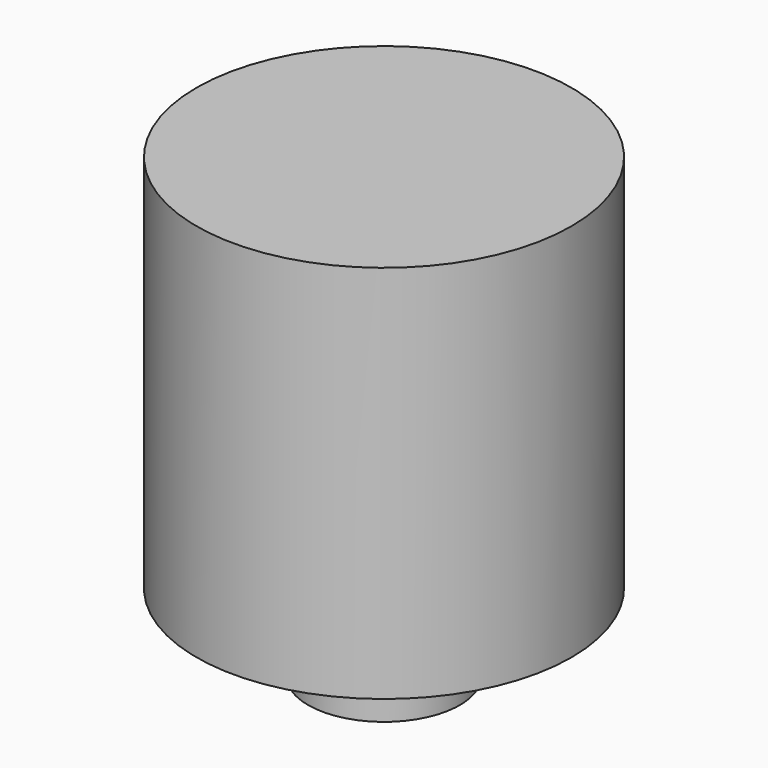
from build123d import *

# Parameters (mm, degrees)
F2_R      = 0.75
F1_FACE_R = 18
F3_DEPTH  = 5


with BuildPart() as f1:
    # F0 (on Front) → F1 (revolve)
    with BuildSketch(Plane.XZ):
        Polygon((-25, 0), (0, 0), (0, 5), (-18, 5), (-18, 20), (-55.7468829195, 31.0686341332), (-55.7468829195, 144.7754010692), (0, 144.7754010692), (0, 150.7754010692), (-61.7468829195, 150.7754010692), (-61.7468829195, 25.7754010692), (-25, 15), align=None)
    revolve(axis=Axis((0, 0, 9.5453196814), (0, 0, -1)))

    # F2 (on Top) + F1_face (on face) → F3 (cut, through all)
    with BuildSketch(Plane.XY):
        with Locations((3.0040326084, 13.1615268145)):
            Circle(F2_R)
        with Locations((0, 13.5)):
            Circle(F2_R)
        with Locations((10.5547250133, -8.4171123251)):
            Circle(F2_R)
        with Locations((12.1630797167, -5.8574304781)):
            Circle(F2_R)
        with Locations((13.1615268145, -3.0040326084)):
            Circle(F2_R)
        with BuildLine():
            ThreePointArc((-3.4816367378, -7.7542379139), (-2.7599454882, -8.0394465545), (-2.0152509152, -8.2576488027))
            ThreePointArc((-2.0152509152, -8.2576488027), (-1.9918087148, -8.1496650898), (-1.9839414752, -8.0394465545))
            ThreePointArc((-1.9839414752, -8.0394465545), (-2.6147784767, -7.2771416502), (-3.4816367378, -7.7542379139))
        make_face()
        with Locations((-1.6394649279, 10.8771390885)):
            Circle(F2_R)
        with Locations((10.5547250133, 8.4171123251)):
            Circle(F2_R)
        with Locations((12.1630797167, 5.8574304781)):
            Circle(F2_R)
        with Locations((10.969241769, -0.8220310295)):
            Circle(F2_R)
        with Locations((8.4171123251, 10.5547250133)):
            Circle(F2_R)
        with Locations((-7.4819001155, 8.0635705901)):
            Circle(F2_R)
        with Locations((5.8574304781, 12.1630797167)):
            Circle(F2_R)
        with Locations((10.724207034, 2.4477302735)):
            Circle(F2_R)
        with BuildLine():
            ThreePointArc((-4.710457363, 7.0754216433), (-4.0455528408, 7.4755268853), (-3.3469298407, 7.8133258374))
            ThreePointArc((-3.3469298407, 7.8133258374), (-4.4148899278, 8.1580020456), (-4.710457363, 7.0754216433))
        make_face()
        with Locations((1.6394649279, 10.8771390885)):
            Circle(F2_R)
        with Locations((3.0040326084, -13.1615268145)):
            Circle(F2_R)
        with Locations((-13.1615268145, -3.0040326084)):
            Circle(F2_R)
        with Locations((9.5262794416, 5.5)):
            Circle(F2_R)
        with Locations((-12.1630797167, 5.8574304781)):
            Circle(F2_R)
        with BuildLine():
            ThreePointArc((4.587313245, -7.155875711), (5.2208080579, -6.7076943299), (5.8107889907, -6.2036063145))
            ThreePointArc((5.8107889907, -6.2036063145), (4.7441765279, -6.0953181277), (4.587313245, -7.155875711))
        make_face()
        with BuildLine():
            ThreePointArc((3.3469298407, 7.8133258374), (4.0455528408, 7.4755268853), (4.710457363, 7.0754216433))
            ThreePointArc((4.710457363, 7.0754216433), (4.7932662906, 7.2679050527), (4.8215568539, 7.4755268853))
            ThreePointArc((4.8215568539, 7.4755268853), (4.218827156, 8.2319383077), (3.3469298407, 7.8133258374))
        make_face()
        with Locations((-9.5262794416, 5.5)):
            Circle(F2_R)
        with Locations((-13.1615268145, 3.0040326084)):
            Circle(F2_R)
        with BuildLine():
            ThreePointArc((-8.395862847, -1.3264565783), (-8.2399022605, -2.0866266407), (-8.0152645431, -2.8294052916))
            ThreePointArc((-8.0152645431, -2.8294052916), (-7.6168043555, -2.5491536443), (-7.4638982474, -2.0866266407))
            ThreePointArc((-7.4638982474, -2.0866266407), (-7.7494146525, -1.4852913477), (-8.395862847, -1.3264565783))
        make_face()
        with Locations((0, -11)):
            Circle(F2_R)
        with BuildLine():
            ThreePointArc((-2.1578461383, 8.2215387881), (-1.3990540174, 8.3840710789), (-0.628601198, 8.4767246348))
            ThreePointArc((-0.628601198, 8.4767246348), (-1.52678008, 9.1494914087), (-2.1578461383, 8.2215387881))
        make_face()
        with BuildLine():
            ThreePointArc((8.0152645431, -2.8294052916), (8.2399022605, -2.0866266407), (8.395862847, -1.3264565783))
            ThreePointArc((8.395862847, -1.3264565783), (7.4876437639, -1.8961289175), (8.0152645431, -2.8294052916))
        make_face()
        with Locations((6.1965206387, -9.0886265175)):
            Circle(F2_R)
        with Locations((4.7727211303, 9.9106575469)):
            Circle(F2_R)
        with Locations((-10.724207034, 2.4477302735)):
            Circle(F2_R)
        with Locations((8.4171123251, -10.5547250133)):
            Circle(F2_R)
        with BuildLine():
            ThreePointArc((-3.4816367378, -7.7542379139), (-3.0119135794, -8.7734045296), (-2.0152509152, -8.2576488027))
            ThreePointArc((-2.0152509152, -8.2576488027), (-2.7599454882, -8.0394465545), (-3.4816367378, -7.7542379139))
        make_face()
        with Locations((-10.5547250133, 8.4171123251)):
            Circle(F2_R)
        with Locations((5.8574304781, -12.1630797167)):
            Circle(F2_R)
        with Locations((-5.8574304781, 12.1630797167)):
            Circle(F2_R)
        with Locations((13.5, 0)):
            Circle(F2_R)
        with Locations((13.1615268145, 3.0040326084)):
            Circle(F2_R)
        with BuildLine():
            ThreePointArc((-6.7526174423, 5.1625727771), (-6.2536532407, 5.7568933588), (-5.7025667023, 6.3032319493))
            ThreePointArc((-5.7025667023, 6.3032319493), (-6.8245779479, 6.2824665764), (-6.7526174422, 5.1625727771))
        make_face()
        with Locations((-12.1630797167, -5.8574304781)):
            Circle(F2_R)
        with BuildLine():
            ThreePointArc((7.4402419771, 4.1100850747), (7.0734295, 3.102693848), (8.0630266439, 2.6902790449))
            ThreePointArc((8.0630266439, 2.6902790449), (7.7840732766, 3.4144111095), (7.4402419771, 4.1100850747))
        make_face()
        with Locations((-8.4171123251, 10.5547250133)):
            Circle(F2_R)
        with BuildLine():
            ThreePointArc((-0.7751951212, -8.464577516), (0, -8.5), (0.7751951212, -8.464577516))
            ThreePointArc((0.7751951212, -8.464577516), (0, -7.7239959869), (-0.7751951212, -8.464577516))
        make_face()
        with Locations((-6.1965206387, -9.0886265175)):
            Circle(F2_R)
        with BuildLine():
            ThreePointArc((-3.2695488278, 7.4755268853), (-3.2891414184, 7.6488012005), (-3.3469298407, 7.8133258374))
            ThreePointArc((-3.3469298407, 7.8133258374), (-4.0455528408, 7.4755268853), (-4.710457363, 7.0754216433))
            ThreePointArc((-4.710457363, 7.0754216433), (-3.8379310082, 6.7278134355), (-3.2695488278, 7.4755268853))
        make_face()
        with Locations((8.6001463071, -6.8583878204)):
            Circle(F2_R)
        with BuildLine():
            ThreePointArc((-8.499681798, -0.0735481659), (-8.4709681906, 0.7019244365), (-8.3716515866, 1.4715467078))
            ThreePointArc((-8.3716515866, 1.4715467078), (-9.2443217565, 0.76600634), (-8.499681798, -0.0735481659))
        make_face()
        with Locations((-8.4171123251, -10.5547250133)):
            Circle(F2_R)
        with BuildLine():
            ThreePointArc((7.8919190783, -4.649059344), (7.7897805355, -4.2642378839), (7.5102520928, -3.9807177121))
            ThreePointArc((7.5102520928, -3.9807177121), (7.1159150652, -4.649059344), (6.6622690053, -5.2786524512))
            ThreePointArc((6.6622690053, -5.2786524512), (7.469575259, -5.3397884484), (7.8919190783, -4.649059344))
        make_face()
        with BuildLine():
            ThreePointArc((-0.6230500043, 8.3840710789), (-0.6244390459, 8.4304809302), (-0.628601198, 8.4767246348))
            ThreePointArc((-0.628601198, 8.4767246348), (-1.3990540174, 8.3840710789), (-2.1578461383, 8.2215387881))
            ThreePointArc((-2.1578461383, 8.2215387881), (-1.3173334649, 7.6123820356), (-0.6230500043, 8.3840710789))
        make_face()
        with BuildLine():
            ThreePointArc((7.4402419771, 4.1100850747), (7.7840732766, 3.4144111095), (8.0630266439, 2.6902790449))
            ThreePointArc((8.0630266439, 2.6902790449), (8.4238588503, 2.9752566403), (8.5600772896, 3.4144111096))
            ThreePointArc((8.5600772896, 3.4144111096), (8.1935654988, 4.0735759965), (7.4402419771, 4.1100850747))
        make_face()
        with BuildLine():
            ThreePointArc((-5.8107889907, -6.2036063145), (-5.2208080579, -6.7076943299), (-4.587313245, -7.155875711))
            ThreePointArc((-4.587313245, -7.155875711), (-4.4812890435, -6.9428407856), (-4.4448040448, -6.7076943299))
            ThreePointArc((-4.4448040448, -6.7076943299), (-4.9521496718, -5.9796799757), (-5.8107889907, -6.2036063145))
        make_face()
        with BuildLine():
            ThreePointArc((3.5359495013, -8.0394465545), (3.5222503925, -7.894279543), (3.4816367378, -7.7542379139))
            ThreePointArc((3.4816367378, -7.7542379139), (2.7599454882, -8.0394465545), (2.0152509152, -8.2576488027))
            ThreePointArc((2.0152509152, -8.2576488027), (2.8701640236, -8.8075833279), (3.5359495013, -8.0394465545))
        make_face()
        with Locations((-3.0040326084, 13.1615268145)):
            Circle(F2_R)
        with BuildLine():
            ThreePointArc((0.628601198, 8.4767246348), (1.2713279548, 7.6186507492), (2.1578461383, 8.2215387881))
            ThreePointArc((2.1578461383, 8.2215387881), (1.3990540174, 8.3840710789), (0.628601198, 8.4767246348))
        make_face()
        with Locations((-3.2423069185, -10.5113008636)):
            Circle(F2_R)
        with Locations((10.2396112351, -4.018751268)):
            Circle(F2_R)
        with BuildLine():
            ThreePointArc((5.7025667023, 6.3032319493), (6.2536532407, 5.7568933588), (6.7526174423, 5.1625727771))
            ThreePointArc((6.7526174422, 5.1625727771), (6.9569954231, 5.4290336285), (7.0296572538, 5.7568933588))
            ThreePointArc((7.0296572538, 5.7568933588), (6.5490655483, 6.4744683004), (5.7025667023, 6.3032319493))
        make_face()
        with BuildLine():
            ThreePointArc((5.9968120709, -6.7076943299), (5.948822412, -6.4390359438), (5.8107889907, -6.2036063145))
            ThreePointArc((5.8107889907, -6.2036063145), (5.2208080579, -6.7076943299), (4.587313245, -7.155875711))
            ThreePointArc((4.587313245, -7.155875711), (5.4559545136, -7.4472133443), (5.9968120709, -6.7076943299))
        make_face()
        with BuildLine():
            ThreePointArc((9.0159062735, -2.0866266407), (8.8412375535, -1.5961390327), (8.395862847, -1.3264565783))
            ThreePointArc((8.395862847, -1.3264565783), (8.2399022605, -2.0866266407), (8.0152645431, -2.8294052916))
            ThreePointArc((8.0152645431, -2.8294052916), (8.7024292641, -2.7097245457), (9.0159062735, -2.0866266407))
        make_face()
        with Locations((0, -13.5)):
            Circle(F2_R)
        with Locations((-10.5547250133, -8.4171123251)):
            Circle(F2_R)
        with BuildLine():
            ThreePointArc((-8.0630266439, 2.6902790449), (-7.7840732766, 3.4144111096), (-7.4402419771, 4.1100850747))
            ThreePointArc((-7.4402419771, 4.1100850747), (-8.4947170531, 3.7261283711), (-8.0630266439, 2.6902790449))
        make_face()
        with BuildLine():
            ThreePointArc((2.0152509152, -8.2576488027), (2.7599454882, -8.0394465545), (3.4816367378, -7.7542379139))
            ThreePointArc((3.4816367378, -7.7542379139), (2.5079773971, -7.3054885793), (2.0152509152, -8.2576488027))
        make_face()
        with BuildLine():
            ThreePointArc((8.499681798, -0.0735481659), (8.4999204491, -0.0367744271), (8.5, 0))
            ThreePointArc((8.5, 0), (8.4678521033, 0.738566691), (8.3716515866, 1.4715467078))
            ThreePointArc((8.3716515866, 1.4715467078), (7.6976146246, 0.637842533), (8.499681798, -0.0735481659))
        make_face()
        with Locations((-4.7727211303, 9.9106575469)):
            Circle(F2_R)
        with BuildLine():
            ThreePointArc((8.3716515866, 1.4715467078), (8.4678521033, 0.738566691), (8.5, 0))
            ThreePointArc((8.5, 0), (8.4999204491, -0.0367744271), (8.499681798, -0.0735481659))
            ThreePointArc((8.499681798, -0.0735481659), (9.0297454731, 0.1634542174), (9.2469722036, 0.7019244365))
            ThreePointArc((9.2469722036, 0.7019244365), (8.9833704471, 1.2846989691), (8.3716515866, 1.4715467078))
        make_face()
        with BuildLine():
            ThreePointArc((-5.4776492277, 5.7568933588), (-5.5360782991, 6.0523056664), (-5.7025667023, 6.3032319493))
            ThreePointArc((-5.7025667023, 6.3032319493), (-6.2536532407, 5.7568933588), (-6.7526174423, 5.1625727771))
            ThreePointArc((-6.7526174422, 5.1625727771), (-5.9257935104, 5.0535511764), (-5.4776492277, 5.7568933588))
        make_face()
        with Locations((-10.2396112351, -4.018751268)):
            Circle(F2_R)
        with BuildLine():
            ThreePointArc((-8.395862847, -1.3264565783), (-8.9921607571, -2.2771243639), (-8.0152645431, -2.8294052916))
            ThreePointArc((-8.0152645431, -2.8294052916), (-8.2399022605, -2.0866266407), (-8.395862847, -1.3264565783))
        make_face()
        with Locations((-5.8574304781, -12.1630797167)):
            Circle(F2_R)
        with Locations((7.4819001155, 8.0635705901)):
            Circle(F2_R)
        with Locations((3.2423069185, -10.5113008636)):
            Circle(F2_R)
        with BuildLine():
            ThreePointArc((0.628601198, 8.4767246348), (1.3990540174, 8.3840710789), (2.1578461383, 8.2215387881))
            ThreePointArc((2.1578461383, 8.2215387881), (2.1707430607, 8.3023505264), (2.1750580304, 8.3840710789))
            ThreePointArc((2.1750580304, 8.3840710789), (1.4454638686, 9.1586860504), (0.628601198, 8.4767246348))
        make_face()
        with BuildLine():
            ThreePointArc((6.6622690053, -5.2786524512), (7.1159150652, -4.649059344), (7.5102520928, -3.9807177121))
            ThreePointArc((7.5102520928, -3.9807177121), (6.4662705185, -4.2246253784), (6.6622690053, -5.2786524512))
        make_face()
        with BuildLine():
            ThreePointArc((3.3469298407, 7.8133258374), (3.6762157538, 6.7930517249), (4.710457363, 7.0754216433))
            ThreePointArc((4.710457363, 7.0754216433), (4.0455528408, 7.4755268853), (3.3469298407, 7.8133258374))
        make_face()
        with Locations((-10.969241769, -0.8220310295)):
            Circle(F2_R)
        with BuildLine():
            ThreePointArc((-5.8107889907, -6.2036063145), (-5.6974395878, -7.320070532), (-4.587313245, -7.155875711))
            ThreePointArc((-4.587313245, -7.155875711), (-5.2208080579, -6.7076943299), (-5.8107889907, -6.2036063145))
        make_face()
        with BuildLine():
            ThreePointArc((-7.6949641775, 0.7019244365), (-7.888193658, 1.2143266931), (-8.3716515866, 1.4715467078))
            ThreePointArc((-8.3716515866, 1.4715467078), (-8.4709681906, 0.7019244365), (-8.499681798, -0.0735481659))
            ThreePointArc((-8.499681798, -0.0735481659), (-7.9324979715, 0.143147154), (-7.6949641775, 0.7019244365))
        make_face()
        with Locations((-8.6001463071, -6.8583878204)):
            Circle(F2_R)
        with BuildLine():
            ThreePointArc((5.7025667023, 6.3032319493), (5.6827285335, 5.2313201413), (6.7526174422, 5.1625727771))
            ThreePointArc((6.7526174423, 5.1625727771), (6.2536532407, 5.7568933588), (5.7025667023, 6.3032319493))
        make_face()
        with BuildLine():
            ThreePointArc((0.7760040131, -8.5), (0.7758017637, -8.4822841407), (0.7751951212, -8.464577516))
            ThreePointArc((0.7751951212, -8.464577516), (0, -8.5), (-0.7751951212, -8.464577516))
            ThreePointArc((-0.7751951212, -8.464577516), (-0.0177158593, -9.2758017637), (0.7760040131, -8.5))
        make_face()
        with BuildLine():
            ThreePointArc((-7.5102520928, -3.9807177121), (-7.1159150652, -4.649059344), (-6.6622690053, -5.2786524512))
            ThreePointArc((-6.6622690053, -5.2786524512), (-6.4251859608, -5.0027195378), (-6.3399110522, -4.649059344))
            ThreePointArc((-6.3399110522, -4.649059344), (-6.7310936051, -3.9751938737), (-7.5102520928, -3.9807177121))
        make_face()
        with Locations((-13.5, 0)):
            Circle(F2_R)
        with Locations((-3.0040326084, -13.1615268145)):
            Circle(F2_R)
        with BuildLine():
            ThreePointArc((-7.5102520928, -3.9807177121), (-7.765559612, -5.0734933097), (-6.6622690053, -5.2786524512))
            ThreePointArc((-6.6622690053, -5.2786524512), (-7.1159150652, -4.649059344), (-7.5102520928, -3.9807177121))
        make_face()
        with BuildLine():
            ThreePointArc((-7.0080692635, 3.4144111096), (-7.1249083896, 3.8239033318), (-7.4402419771, 4.1100850747))
            ThreePointArc((-7.4402419771, 4.1100850747), (-7.7840732766, 3.4144111096), (-8.0630266439, 2.6902790449))
            ThreePointArc((-8.0630266439, 2.6902790449), (-7.3449188073, 2.7746255358), (-7.0080692635, 3.4144111096))
        make_face()
    with BuildSketch(Plane.XY.offset(5)):
        Circle(F1_FACE_R)
    extrude(amount=F3_DEPTH, mode=Mode.SUBTRACT)


solid = f1.part
